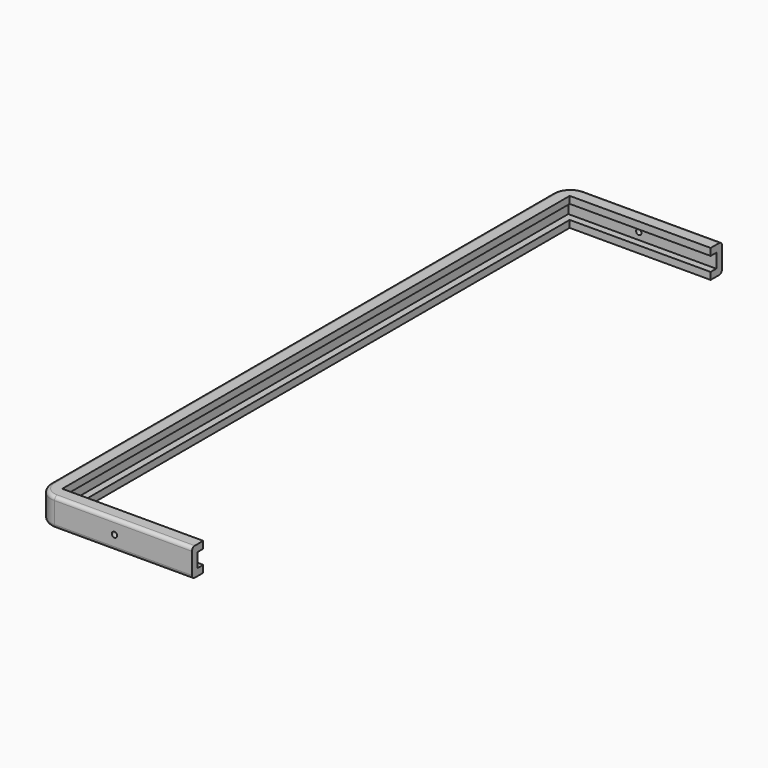
from build123d import *

# Parameters (mm, degrees)
F0_W     = 1880
F0_H     = 80
F1_DEPTH = 440
F2_W     = 1800
F2_H     = 80
F3_DEPTH = 400
F4_W     = 400
F4_H     = 40
F5_DEPTH = 20
F6_W     = 400
F6_H     = 40
F7_DEPTH = 20
F8_W     = 1840
F8_H     = 40
F9_DEPTH = 20
F11_D    = 15
F12_R    = 50
F13_R    = 50
F14_R    = 10


with BuildPart() as f1:
    # F0 (on Right) → F1 (new body)
    with BuildSketch(Plane.YZ):
        with Locations((818.311098, -14.702874)):
            Rectangle(F0_W, F0_H)
    extrude(amount=F1_DEPTH)

    # F2 (on face) → F3 (cut)
    with BuildSketch(Plane.YZ.offset(440)):
        with Locations((818.311098, -14.702874)):
            Rectangle(F2_W, F2_H)
    extrude(amount=-F3_DEPTH, mode=Mode.SUBTRACT)

    # F4 (on face) → F5 (cut)
    with BuildSketch(Plane.XZ.offset(-1718.311098)):
        with Locations((240, -14.702874)):
            Rectangle(F4_W, F4_H)
    extrude(amount=-F5_DEPTH, mode=Mode.SUBTRACT)

    # F6 (on face) → F7 (cut)
    with BuildSketch(Plane(origin=(0, -81.688902, 0), x_dir=(-1, 0, 0), z_dir=(0, 1, 0))):
        with Locations((-240, -14.702874)):
            Rectangle(F6_W, F6_H)
    extrude(amount=-F7_DEPTH, mode=Mode.SUBTRACT)

    # F8 (on face) → F9 (cut)
    with BuildSketch(Plane.YZ.offset(40)):
        with Locations((818.311098, -14.702874)):
            Rectangle(F8_W, F8_H)
    extrude(amount=-F9_DEPTH, mode=Mode.SUBTRACT)

    # F11 (through all)
    with Locations(Plane(origin=(0, 1758.311098, 0), x_dir=(-1, 0, 0), z_dir=(0, 1, 0))):
        with Locations((-220, -14.702874)):
            Hole(F11_D / 2)

    # F12
    f12_edges = [f1.edges().sort_by_distance(p)[0] for p in [
        (0, 1758.311098, -14.702874),
    ]]
    fillet(f12_edges, radius=F12_R)

    # F13
    f13_edges = [f1.edges().sort_by_distance(p)[0] for p in [
        (0, -121.688902, -14.702874),
    ]]
    fillet(f13_edges, radius=F13_R)

    # F14
    f14_edges = [f1.edges().sort_by_distance(p)[0] for p in [
        (0, 818.311098, -54.702874),
        (0, 818.311098, 25.297126),
    ]]
    fillet(f14_edges, radius=F14_R)


solid = f1.part
